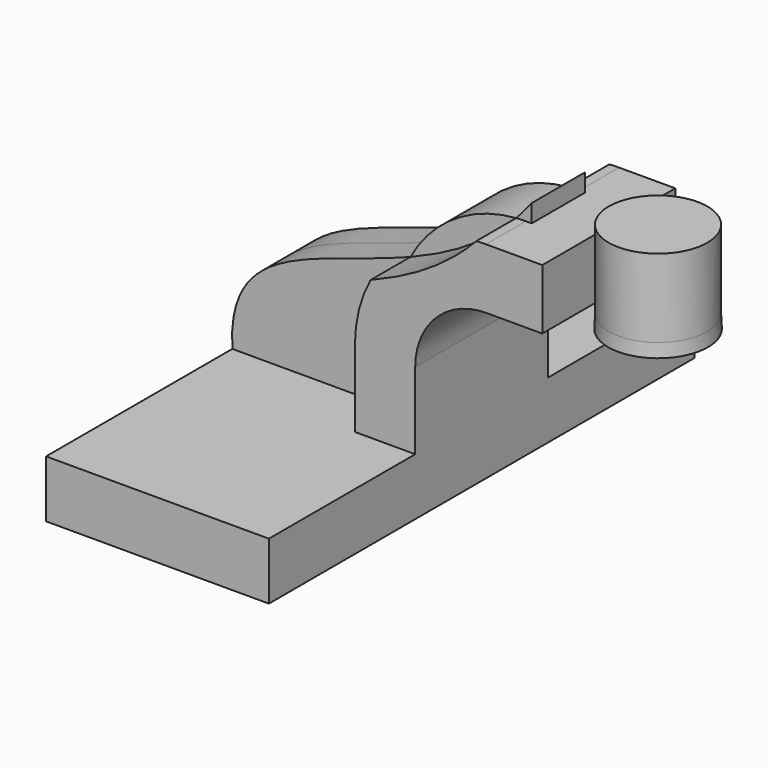
from build123d import *

# Parameters (mm, degrees)
F0_W     = 7.5905228982
F0_H     = 9.0643905006
F1_DEPTH = 12.5
F2_DEPTH = 40
F4_DEPTH = 5


with BuildPart() as f1:
    # F0 (on Front) → F1 (new body, symmetric)
    with BuildSketch(Plane.XZ):
        with BuildLine():
            Line((7.6856094994, 4.3011470738), (16.75, 4.3011470738))
            Line((16.75, 4.3011470738), (16.75, 15.840813565))
            ThreePointArc((16.75, 15.840813565), (19.8670563253, 23.3660532203), (27.3922959806, 26.4831095456))
            Line((27.3922959806, 26.4831095456), (28.2613855783, 26.4831095456))
            Line((28.2613855783, 26.4831095456), (28.2613855783, 35.5475000462))
            Line((28.2613855783, 35.5475000462), (27.3922959806, 35.5475000462))
            ThreePointArc((27.3922959806, 35.5475000462), (26.6595058125, 35.5338709873), (25.9277292333, 35.4930026622))
            add(Edge.make_bspline(
                [(10.0418291586, 25.185052064), (15.5775151902, 27.3891576343), (21.1654840675, 30.4152159291), (25.9277292333, 35.4930026622)],
                knots=[38.5685549277, 38.5685549277, 38.5685549277, 38.5685549277, 53.8052003725, 53.8052003725, 53.8052003725, 53.8052003725], degree=3))
            ThreePointArc((10.0418291586, 25.185052064), (8.283741587, 20.659178542), (7.6856094994, 15.840813565))
            Line((7.6856094994, 15.840813565), (7.6856094994, 4.3011470738))
        make_face()
        with Locations((32.0566470274, 31.0153047959)):
            Rectangle(F0_W, F0_H)
    extrude(amount=F1_DEPTH, both=True)

    # F0 (on Front) → F2 (join, symmetric)
    with BuildSketch(Plane.XZ):
        Polygon((-16.75, -4.3011470738), (16.75, -4.3011470738), (16.75, 4.3011470738), (7.6856094994, 4.3011470738), (-16.75, 4.3011470738), align=None)
    extrude(amount=F2_DEPTH, both=True)

    # F0 (on Front) → F3 (revolve)
    with BuildSketch(Plane.XZ):
        Polygon((35.8519084766, 35.5475000462), (35.8519084766, 26.4831095456), (35.7613855783, 24.4431112285), (43.2613855783, 24.4431112285), (43.2613855783, 38.2416049142), (35.8519084766, 38.2416049142), align=None)
    revolve(axis=Axis((43.2613855783, 0, 31.3423580713), (0, 0, 1)))

    # F0 (on Front) → F4 (join, symmetric)
    with BuildSketch(Plane.XZ):
        with BuildLine():
            add(Edge.make_bspline(
                [(-16.75, 4.3011470738), (-17.6481580104, 19.2931920358), (-3.9706653598, 19.6057946701), (10.0418291586, 25.185052064)],
                knots=[0, 0, 0, 0, 38.5685549277, 38.5685549277, 38.5685549277, 38.5685549277], degree=3))
            Line((-16.75, 4.3011470738), (7.6856094994, 4.3011470738))
            Line((7.6856094994, 4.3011470738), (7.6856094994, 15.840813565))
            ThreePointArc((7.6856094994, 15.840813565), (8.283741587, 20.659178542), (10.0418291586, 25.185052064))
        make_face()
        with BuildLine():
            ThreePointArc((25.9277292333, 35.4930026622), (16.6654682372, 32.3722581065), (10.0418291586, 25.185052064))
            add(Edge.make_bspline(
                [(10.0418291586, 25.185052064), (15.5775151902, 27.3891576343), (21.1654840675, 30.4152159291), (25.9277292333, 35.4930026622)],
                knots=[38.5685549277, 38.5685549277, 38.5685549277, 38.5685549277, 53.8052003725, 53.8052003725, 53.8052003725, 53.8052003725], degree=3))
        make_face()
        with BuildLine():
            add(Edge.make_bspline(
                [(25.9277292333, 35.4930026622), (26.7304788127, 36.34894162), (27.5097660464, 37.2631789667), (28.2613855783, 38.2416049142)],
                knots=[53.8052003725, 53.8052003725, 53.8052003725, 53.8052003725, 56.3735710248, 56.3735710248, 56.3735710248, 56.3735710248], degree=3))
            ThreePointArc((25.9277292333, 35.4930026622), (26.6595058125, 35.5338709873), (27.3922959806, 35.5475000462))
            Line((27.3922959806, 35.5475000462), (28.2613855783, 35.5475000462))
            Line((28.2613855783, 35.5475000462), (28.2613855783, 38.2416049142))
        make_face()
    extrude(amount=F4_DEPTH, both=True)


solid = f1.part
